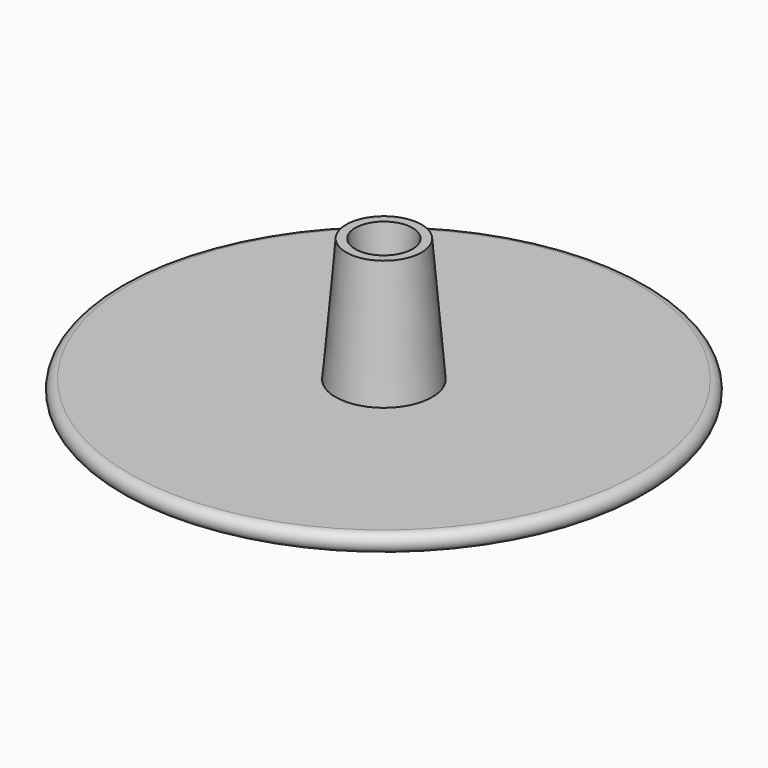
from build123d import *


with BuildPart() as f1:
    # F0 (on Front) → F1 (revolve)
    with BuildSketch(Plane.XZ):
        Polygon((-32.025, -0.306178), (-26.025, -0.306178), (-26.025, 24.693822), (-19, 24.693822), (-19, 44.693822), (-19, 44.808071), (-32.025, 44.808071), (-169, 44.808071), (-169, 38.808071), (-32.025, 38.808071), (-32.025, 24.808071), align=None)
        Polygon((-32.025, 44.808071), (-19, 44.808071), (-12.136365, 44.808071), (-19, 126.980919), (-25, 126.980919), align=None)
        with BuildLine():
            Line((-169, 32.808071), (-169, 38.808071))
            Line((-169, 38.808071), (-169, 44.808071))
            ThreePointArc((-169, 44.808071), (-175, 38.808071), (-169, 32.808071))
        make_face()
    revolve(axis=Axis((0, 0, 64.125952), (0, 0, 1)))


solid = f1.part
